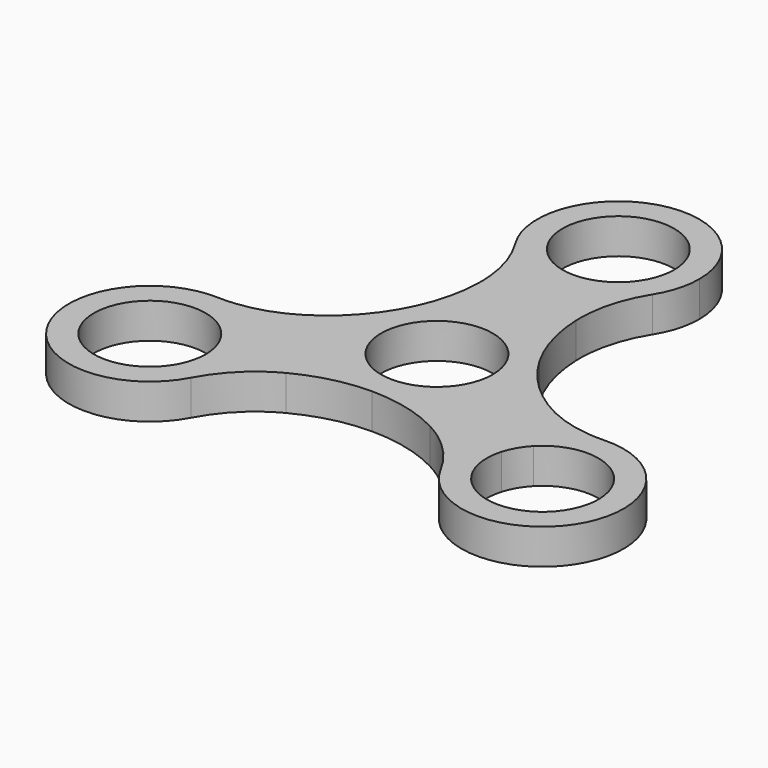
from build123d import *

# Parameters (mm, degrees)
F0_R     = 11.08
F1_DEPTH = 7
F2_R     = 25


with BuildPart() as f1:
    # F0 (on Top) → F1 (new body)
    with BuildSketch(Plane.XY):
        with BuildLine():
            ThreePointArc((2.6624965293, 34.2446519242), (3.3990862891, 31.8515325068), (4.1848381854, 29.4741013348))
            ThreePointArc((4.1848381854, 29.4741013348), (8.2251664175, 31.1828715934), (11.6533257056, 33.92))
            ThreePointArc((11.6533257056, 33.92), (14.9323788685, 39.0342258401), (16.08, 45))
            ThreePointArc((16.08, 45), (-5.9657741599, 59.9323788685), (-11.6533257056, 33.92))
            ThreePointArc((-11.6533257056, 33.92), (-8.2251664175, 31.1828715934), (-4.1848381854, 29.4741013348))
            ThreePointArc((-4.1848381854, 29.4741013348), (-3.3990862891, 31.8515325068), (-2.6624965293, 34.2446519242))
            ThreePointArc((-2.6624965293, 34.2446519242), (-6.8288336653, 53.7254473107), (11.08, 45))
            ThreePointArc((11.08, 45), (8.7254473107, 38.1711663347), (2.6624965293, 34.2446519242))
        make_face()
        with BuildLine():
            ThreePointArc((-11.6533257056, 33.92), (-9.9229010426, 20.728301046), (-13.9256884929, 8.04))
            ThreePointArc((-13.9256884929, 8.04), (-8.5348333079, 18.5205382543), (-4.1848381854, 29.4741013348))
            ThreePointArc((-4.1848381854, 29.4741013348), (-8.2251664175, 31.1828715934), (-11.6533257056, 33.92))
        make_face()
        with BuildLine():
            ThreePointArc((-4.1848381854, 29.4741013348), (0, 28.92), (4.1848381854, 29.4741013348))
            ThreePointArc((4.1848381854, 29.4741013348), (3.3990862891, 31.8515325068), (2.6624965293, 34.2446519242))
            ThreePointArc((2.6624965293, 34.2446519242), (0, 33.92), (-2.6624965293, 34.2446519242))
            ThreePointArc((-2.6624965293, 34.2446519242), (-3.3990862891, 31.8515325068), (-4.1848381854, 29.4741013348))
        make_face()
        with BuildLine():
            ThreePointArc((-13.9256884929, 8.04), (0, 16.08), (13.9256884929, 8.04))
            ThreePointArc((13.9256884929, 8.04), (8.5348333079, 18.5205382543), (4.1848381854, 29.4741013348))
            ThreePointArc((4.1848381854, 29.4741013348), (0, 28.92), (-4.1848381854, 29.4741013348))
            ThreePointArc((-4.1848381854, 29.4741013348), (-8.5348333079, 18.5205382543), (-13.9256884929, 8.04))
        make_face()
        with BuildLine():
            ThreePointArc((4.1848381854, 29.4741013348), (8.5348333079, 18.5205382543), (13.9256884929, 8.04))
            ThreePointArc((13.9256884929, 8.04), (9.9229010426, 20.728301046), (11.6533257056, 33.92))
            ThreePointArc((11.6533257056, 33.92), (8.2251664175, 31.1828715934), (4.1848381854, 29.4741013348))
        make_face()
        with BuildLine():
            ThreePointArc((-22.8911431703, -22.5), (-23.0271579816, -20.4129599182), (-23.4329014169, -18.3612268467))
            ThreePointArc((-23.4329014169, -18.3612268467), (-25.8846931558, -18.8694613295), (-28.3254902455, -19.4281155939))
            ThreePointArc((-28.3254902455, -19.4281155939), (-28.0002673072, -20.948780223), (-27.8911431703, -22.5))
            ThreePointArc((-27.8911431703, -22.5), (-49.247810258, -26.6420421978), (-30.9879867747, -14.8165363303))
            ThreePointArc((-30.9879867747, -14.8165363303), (-29.2837794449, -12.9820711774), (-27.6177396024, -11.1128744881))
            ThreePointArc((-27.6177396024, -11.1128744881), (-31.1177421715, -8.4682327288), (-35.2022445492, -6.8679239004))
            ThreePointArc((-35.2022445492, -6.8679239004), (-52.8968316632, -30.54), (-23.5489188436, -27.0520760996))
            ThreePointArc((-23.5489188436, -27.0520760996), (-23.0564366513, -24.7996774585), (-22.8911431703, -22.5))
        make_face()
        with BuildLine():
            ThreePointArc((-28.3254902455, -19.4281155939), (-25.8846931558, -18.8694613295), (-23.4329014169, -18.3612268467))
            ThreePointArc((-23.4329014169, -18.3612268467), (-25.0454546774, -14.46), (-27.6177396024, -11.1128744881))
            ThreePointArc((-27.6177396024, -11.1128744881), (-29.2837794449, -12.9820711774), (-30.9879867747, -14.8165363303))
            ThreePointArc((-30.9879867747, -14.8165363303), (-29.3755816964, -16.96), (-28.3254902455, -19.4281155939))
        make_face()
        with BuildLine():
            ThreePointArc((-27.6177396024, -11.1128744881), (-20.3066732739, -1.8688866654), (-13.9256884929, 8.04))
            ThreePointArc((-13.9256884929, 8.04), (-22.9126858044, -1.7706661409), (-35.2022445492, -6.8679239004))
            ThreePointArc((-35.2022445492, -6.8679239004), (-31.1177421715, -8.4682327288), (-27.6177396024, -11.1128744881))
        make_face()
        with BuildLine():
            ThreePointArc((-23.4329014169, -18.3612268467), (-11.771839966, -16.6516515888), (0, -16.08))
            ThreePointArc((0, -16.08), (-13.9256884929, -8.04), (-13.9256884929, 8.04))
            ThreePointArc((-13.9256884929, 8.04), (-20.3066732739, -1.8688866654), (-27.6177396024, -11.1128744881))
            ThreePointArc((-27.6177396024, -11.1128744881), (-25.0454546774, -14.46), (-23.4329014169, -18.3612268467))
        make_face()
        with BuildLine():
            ThreePointArc((-23.5489188436, -27.0520760996), (-12.9897847619, -18.9576349051), (0, -16.08))
            ThreePointArc((0, -16.08), (-11.771839966, -16.6516515888), (-23.4329014169, -18.3612268467))
            ThreePointArc((-23.4329014169, -18.3612268467), (-23.0271579816, -20.4129599182), (-22.8911431703, -22.5))
            ThreePointArc((-22.8911431703, -22.5), (-23.0564366513, -24.7996774585), (-23.5489188436, -27.0520760996))
        make_face()
        with BuildLine():
            ThreePointArc((13.9256884929, 8.04), (15.5320872867, 4.1618102452), (16.08, 0))
            ThreePointArc((16.08, 0), (11.3702770415, -11.3702770415), (0, -16.08))
            ThreePointArc((0, -16.08), (11.771839966, -16.6516515888), (23.4329014169, -18.3612268467))
            ThreePointArc((23.4329014169, -18.3612268467), (25.0454546774, -14.46), (27.6177396024, -11.1128744881))
            ThreePointArc((27.6177396024, -11.1128744881), (20.3066732739, -1.8688866654), (13.9256884929, 8.04))
        make_face()
        with BuildLine():
            ThreePointArc((23.4329014169, -18.3612268467), (11.771839966, -16.6516515888), (0, -16.08))
            ThreePointArc((0, -16.08), (12.9897847619, -18.9576349051), (23.5489188436, -27.0520760996))
            ThreePointArc((23.5489188436, -27.0520760996), (22.8925757541, -22.7146388646), (23.4329014169, -18.3612268467))
        make_face()
        with BuildLine():
            ThreePointArc((35.2022445492, -6.8679239004), (22.9126858044, -1.7706661409), (13.9256884929, 8.04))
            ThreePointArc((13.9256884929, 8.04), (20.3066732739, -1.8688866654), (27.6177396024, -11.1128744881))
            ThreePointArc((27.6177396024, -11.1128744881), (31.1177421715, -8.4682327288), (35.2022445492, -6.8679239004))
        make_face()
        with BuildLine():
            ThreePointArc((35.2022445492, -6.8679239004), (31.1177421715, -8.4682327288), (27.6177396024, -11.1128744881))
            ThreePointArc((27.6177396024, -11.1128744881), (29.2837794449, -12.9820711774), (30.9879867747, -14.8165363303))
            ThreePointArc((30.9879867747, -14.8165363303), (43.1131853681, -12.2233329123), (50.0511431703, -22.5))
            ThreePointArc((50.0511431703, -22.5), (37.4199233933, -33.4708758631), (28.3254902455, -19.4281155939))
            ThreePointArc((28.3254902455, -19.4281155939), (25.8846931558, -18.8694613295), (23.4329014169, -18.3612268467))
            ThreePointArc((23.4329014169, -18.3612268467), (22.8925757541, -22.7146388646), (23.5489188436, -27.0520760996))
            ThreePointArc((23.5489188436, -27.0520760996), (41.2708206288, -38.414706519), (55.0511431703, -22.5))
            ThreePointArc((55.0511431703, -22.5), (48.9200755294, -9.86729859), (35.2022445492, -6.8679239004))
        make_face()
        with BuildLine():
            ThreePointArc((30.9879867747, -14.8165363303), (29.2837794449, -12.9820711774), (27.6177396024, -11.1128744881))
            ThreePointArc((27.6177396024, -11.1128744881), (25.0454546774, -14.46), (23.4329014169, -18.3612268467))
            ThreePointArc((23.4329014169, -18.3612268467), (25.8846931558, -18.8694613295), (28.3254902455, -19.4281155939))
            ThreePointArc((28.3254902455, -19.4281155939), (29.3755816964, -16.96), (30.9879867747, -14.8165363303))
        make_face()
        with BuildLine():
            ThreePointArc((0, -16.08), (11.3702770415, -11.3702770415), (16.08, 0))
            ThreePointArc((16.08, 0), (15.5320872867, 4.1618102452), (13.9256884929, 8.04))
            ThreePointArc((13.9256884929, 8.04), (0, 16.08), (-13.9256884929, 8.04))
            ThreePointArc((-13.9256884929, 8.04), (-13.9256884929, -8.04), (0, -16.08))
        make_face()
        Circle(F0_R, mode=Mode.SUBTRACT)
    extrude(amount=F1_DEPTH)

    # F2
    f2_edges = [f1.edges().sort_by_distance(p)[0] for p in [
        (11.653326, 33.92, 3.5),
        (-11.653326, 33.92, 3.5),
        (35.202245, -6.867924, 3.5),
        (23.548919, -27.052076, 3.5),
        (-23.548919, -27.052076, 3.5),
        (-35.202245, -6.867924, 3.5),
    ]]
    fillet(f2_edges, radius=F2_R)


solid = f1.part
